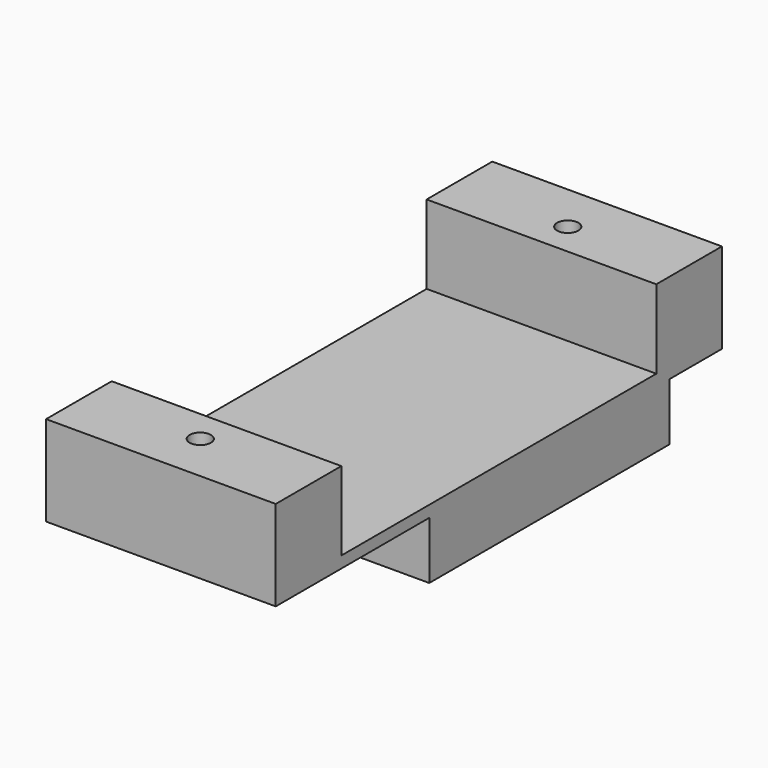
from build123d import *

# Parameters (mm, degrees)
CYLINDER001_R          = 3.5
CYLINDER001_DEPTH      = 4
CYLINDER001_ROLL_ANGLE = 90
CYLINDER003_R          = 0.65
CYLINDER003_DEPTH      = 6
CYLINDER003_ROLL_ANGLE = 90
CYLINDER_R             = 6.5
CYLINDER_DEPTH         = 4
CYLINDER_ROLL_ANGLE    = 90
CYLINDER002_R          = 0.65
CYLINDER002_DEPTH      = 6
CYLINDER002_ROLL_ANGLE = 90
PAD002_DEPTH           = 7
CUT003_ROLL_ANGLE      = 90
CUT003_PLACEMENT_ANGLE = -90


with BuildPart() as cylinder001:
    # Cylinder001 → Cylinder001 (new body)
    with BuildSketch(Plane.XY):
        Circle(CYLINDER001_R)
    extrude(amount=CYLINDER001_DEPTH)


with BuildPart() as cylinder001_1:
    # Cylinder001 roll: moved
    add(cylinder001.part.rotate(Axis((0, 0, 0), (1, 0, 0)), CYLINDER001_ROLL_ANGLE))


with BuildPart() as cylinder001_2:
    # Cylinder001 placement: moved
    add(cylinder001_1.part.moved(Location((0.57, -7, 0))))


with BuildPart() as cylinder003:
    # Cylinder003 → Cylinder003 (new body)
    with BuildSketch(Plane.XY):
        Circle(CYLINDER003_R)
    extrude(amount=CYLINDER003_DEPTH)


with BuildPart() as cylinder003_1:
    # Cylinder003 roll: moved
    add(cylinder003.part.rotate(Axis((0, 0, 0), (1, 0, 0)), CYLINDER003_ROLL_ANGLE))


with BuildPart() as cylinder003_2:
    # Cylinder003 placement: moved
    add(cylinder003_1.part.moved(Location((14, -1, 0))))


with BuildPart() as cylinder:
    # Cylinder → Cylinder (new body)
    with BuildSketch(Plane.XY):
        Circle(CYLINDER_R)
    extrude(amount=CYLINDER_DEPTH)


with BuildPart() as cylinder_1:
    # Cylinder roll: moved
    add(cylinder.part.rotate(Axis((0, 0, 0), (1, 0, 0)), CYLINDER_ROLL_ANGLE))


with BuildPart() as cylinder_2:
    # Cylinder placement: moved
    add(cylinder_1.part.moved(Location((-5.43, -7, 0))))


with BuildPart() as fusion001:
    # Cylinder002 → Cylinder002 (new body)
    with BuildSketch(Plane.XY):
        Circle(CYLINDER002_R)
    extrude(amount=CYLINDER002_DEPTH)


with BuildPart() as fusion001_1:
    # Cylinder002 roll: moved
    add(fusion001.part.rotate(Axis((0, 0, 0), (1, 0, 0)), CYLINDER002_ROLL_ANGLE))


with BuildPart() as fusion001_2:
    # Cylinder002 placement: moved
    add(fusion001_1.part.moved(Location((-14, -1, 0))))

    # Fusion001: union Cylinder001, Cylinder003, Cylinder
    add(cylinder001_2.part)
    add(cylinder003_2.part)
    add(cylinder_2.part)


with BuildPart() as cut003:
    # Sketch → Pad002 (new body, symmetric)
    with BuildSketch(Plane.XY):
        Polygon((-17, -1.5), (-12, -1.5), (-12, -6.3), (12, -6.3), (12, -1.5), (17, -1.5), (17, -7), (5.3, -7), (5.3, -10.5), (-13, -10.5), (-13, -7), (-17, -7), align=None)
    extrude(amount=PAD002_DEPTH, both=True)

    # Cut003: cut Fusion001
    add(fusion001_2.part, mode=Mode.SUBTRACT)


with BuildPart() as cut003_1:
    # Cut003 roll: moved
    add(cut003.part.rotate(Axis((0, 0, 0), (1, 0, 0)), CUT003_ROLL_ANGLE))


with BuildPart() as cut003_2:
    # Cut003 placement: moved
    add(cut003_1.part.moved(Location((-2, 0, -26))).rotate(Axis((-2, 0, -26), (0, 0, 1)), CUT003_PLACEMENT_ANGLE))


solid = cut003_2.part
